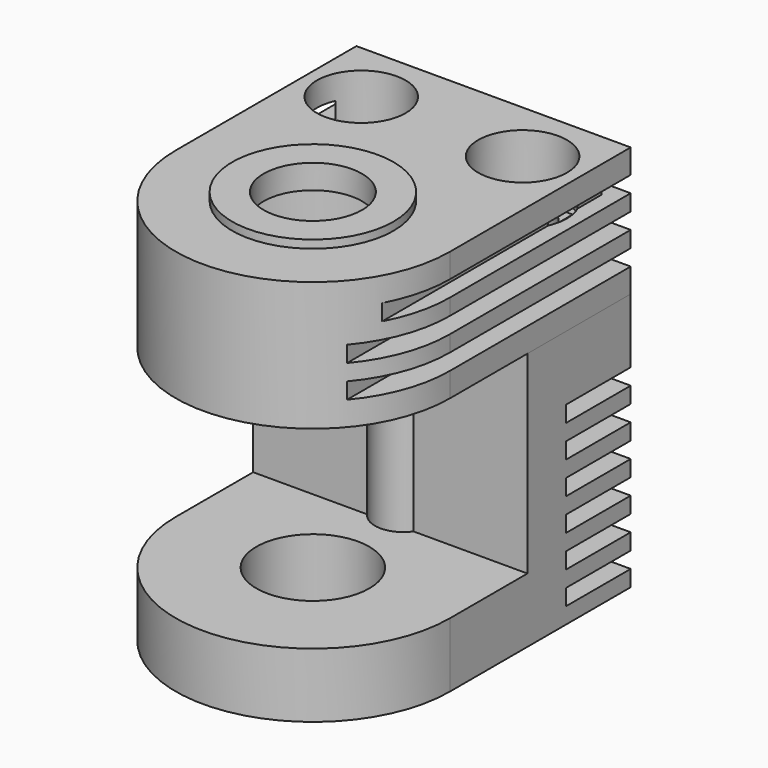
from build123d import *

# Parameters (mm, degrees)
F1_DEPTH  = 16
F2_R      = 1.75
F2_R_2    = 1.5
F3_DEPTH  = 16.001
F5_R      = 3.5
F6_DEPTH  = 4.001
F8_DEPTH  = 13
F9_R      = 3.05
F9_R_2    = 1.75
F10_DEPTH = 8
F11_R     = 2.75
F12_DEPTH = 3.5
F13_R     = 6
F14_DEPTH = 7
F15_R     = 1.5
F16_DEPTH = 8
F17_W     = 5
F17_H     = 1
F18_DEPTH = 17.001
F19_W     = 2
F19_H     = 1
F19_W_2   = 1
F20_DEPTH = 22.501
F21_W     = 2
F21_H     = 1
F21_W_2   = 1
F22_DEPTH = 17.001
F23_R     = 5
F23_R_2   = 3.05
F24_DEPTH = 0.5


with BuildPart() as f1:
    # F0 (on Top) → F1 (new body)
    with BuildSketch(Plane.XY):
        with BuildLine():
            Line((-8.5, 14), (-8.5, 0))
            ThreePointArc((-8.5, 0), (0, -8.5), (8.5, 0))
            Line((8.5, 0), (8.5, 14))
            Line((8.5, 14), (-8.5, 14))
        make_face()
    extrude(amount=F1_DEPTH)

    # F2 (on face) → F3 (cut, through all)
    with BuildSketch(Plane(origin=(0, 0, 0), x_dir=(1, 0, 0), z_dir=(0, 0, -1))):
        with Locations((0, -7)):
            Circle(F2_R)
        with Locations((5, -10)):
            Circle(F2_R_2)
        with Locations((-5, -10)):
            Circle(F2_R_2)
    extrude(amount=-F3_DEPTH, mode=Mode.SUBTRACT)

    # F5 (on offset) → F6 (cut, through all)
    with BuildSketch(Plane(origin=(0, 0, 4), x_dir=(1, 0, 0), z_dir=(0, 0, -1))):
        Circle(F5_R)
    extrude(amount=F6_DEPTH, mode=Mode.SUBTRACT)

    # F7 (on offset) → F8 (cut)
    with BuildSketch(Plane(origin=(0, 0, 4), x_dir=(1, 0, 0), z_dir=(0, 0, -1))):
        with BuildLine():
            Line((8.5, -6), (8.5, 0))
            ThreePointArc((8.5, 0), (0, 8.5), (-8.5, 0))
            Line((-8.5, 0), (-8.5, -6))
            Line((-8.5, -6), (8.5, -6))
        make_face()
    extrude(amount=-F8_DEPTH, mode=Mode.SUBTRACT)

    # F15 (on face) → F16 (join)
    with BuildSketch(Plane(origin=(0, 0, 0), x_dir=(1, 0, 0), z_dir=(0, 0, -1))):
        with Locations((5, -10)):
            Circle(F15_R)
        with Locations((-5, -10)):
            Circle(F15_R)
    extrude(amount=-F16_DEPTH)

    # F17 (on face) → F18 (cut, through all)
    with BuildSketch(Plane(origin=(-8.5, 0, 0), x_dir=(0, -1, 0), z_dir=(-1, 0, 0))):
        with Locations((-11.5, 1.5)):
            Rectangle(F17_W, F17_H)
        with Locations((-11.5, 3.5)):
            Rectangle(F17_W, F17_H)
        with Locations((-11.5, 5.5)):
            Rectangle(F17_W, F17_H)
        with Locations((-11.5, 7.5)):
            Rectangle(F17_W, F17_H)
        with Locations((-11.5, 9.5)):
            Rectangle(F17_W, F17_H)
        with Locations((-11.5, 11.5)):
            Rectangle(F17_W, F17_H)
    extrude(amount=-F18_DEPTH, mode=Mode.SUBTRACT)


with BuildPart() as f10:
    # F9 (on face) → F10 (new body)
    with BuildSketch(Plane.XY.offset(16)):
        with BuildLine():
            Line((-8.5, 14), (-8.5, 0))
            ThreePointArc((-8.5, 0), (0, -8.5), (8.5, 0))
            Line((8.5, 0), (8.5, 14))
            Line((8.5, 14), (-8.5, 14))
        make_face()
        Circle(F9_R, mode=Mode.SUBTRACT)
        with Locations((-5, 10)):
            Circle(F9_R_2, mode=Mode.SUBTRACT)
        with Locations((5, 10)):
            Circle(F9_R_2, mode=Mode.SUBTRACT)
    extrude(amount=F10_DEPTH)

    # F11 (on face) → F12 (cut)
    with BuildSketch(Plane.XY.offset(24)):
        with Locations((-5, 10)):
            Circle(F11_R)
        with Locations((5, 10)):
            Circle(F11_R)
    extrude(amount=-F12_DEPTH, mode=Mode.SUBTRACT)

    # F13 (on face) → F14 (cut)
    with BuildSketch(Plane(origin=(0, 0, 16), x_dir=(1, 0, 0), z_dir=(0, 0, -1))):
        Circle(F13_R)
    extrude(amount=-F14_DEPTH, mode=Mode.SUBTRACT)

    # F19 (on face) → F20 (cut, through all)
    with BuildSketch(Plane(origin=(0, 14, 0), x_dir=(-1, 0, 0), z_dir=(0, 1, 0))):
        with Locations((-7.5, 20)):
            Rectangle(F19_W, F19_H)
        with Locations((-7.5, 18)):
            Rectangle(F19_W, F19_H)
        with Locations((-8, 22)):
            Rectangle(F19_W_2, F19_H)
        with Locations((7.5, 18)):
            Rectangle(F19_W, F19_H)
        with Locations((7.5, 20)):
            Rectangle(F19_W, F19_H)
        with Locations((8, 22)):
            Rectangle(F19_W_2, F19_H)
    extrude(amount=-F20_DEPTH, mode=Mode.SUBTRACT)

    # F21 (on face) → F22 (cut, through all)
    with BuildSketch(Plane.YZ.offset(8.5)):
        with Locations((13, 18)):
            Rectangle(F21_W, F21_H)
        with Locations((13, 20)):
            Rectangle(F21_W, F21_H)
        with Locations((13.5, 22)):
            Rectangle(F21_W_2, F21_H)
    extrude(amount=-F22_DEPTH, mode=Mode.SUBTRACT)

    # F23 (on face) → F24 (join)
    with BuildSketch(Plane.XY.offset(24)):
        Circle(F23_R)
        Circle(F23_R_2, mode=Mode.SUBTRACT)
    extrude(amount=F24_DEPTH)


solid = Compound([f1.part, f10.part])
